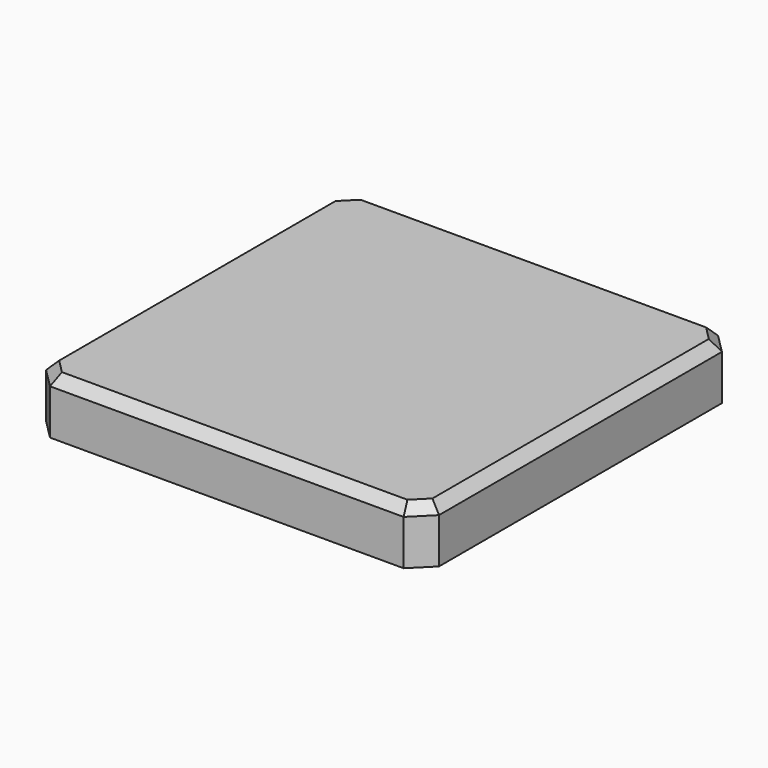
from build123d import *

# Parameters (mm, degrees)
F0_W     = 10
F0_H     = 10
F1_DEPTH = 1.4
F2_SIZE  = 0.5
F3_SIZE  = 0.25


with BuildPart() as f1:
    # F0 (on Top) → F1 (new body)
    with BuildSketch(Plane.XY):
        Rectangle(F0_W, F0_H)
    extrude(amount=F1_DEPTH)

    # F2
    f2_edges = [f1.edges().sort_by_distance(p)[0] for p in [
        (5, 5, 0.7),
        (-5, 5, 0.7),
        (5, -5, 0.7),
        (-5, -5, 0.7),
    ]]
    chamfer(f2_edges, length=F2_SIZE)

    # F3
    f3_edges = [f1.edges().sort_by_distance(p)[0] for p in [
        (0, 5, 1.4),
        (-5, 0, 1.4),
        (-4.75, 4.75, 1.4),
        (0, -5, 1.4),
        (-4.75, -4.75, 1.4),
        (4.75, -4.75, 1.4),
        (5, 0, 1.4),
        (4.75, 4.75, 1.4),
    ]]
    chamfer(f3_edges, length=F3_SIZE)


solid = f1.part
